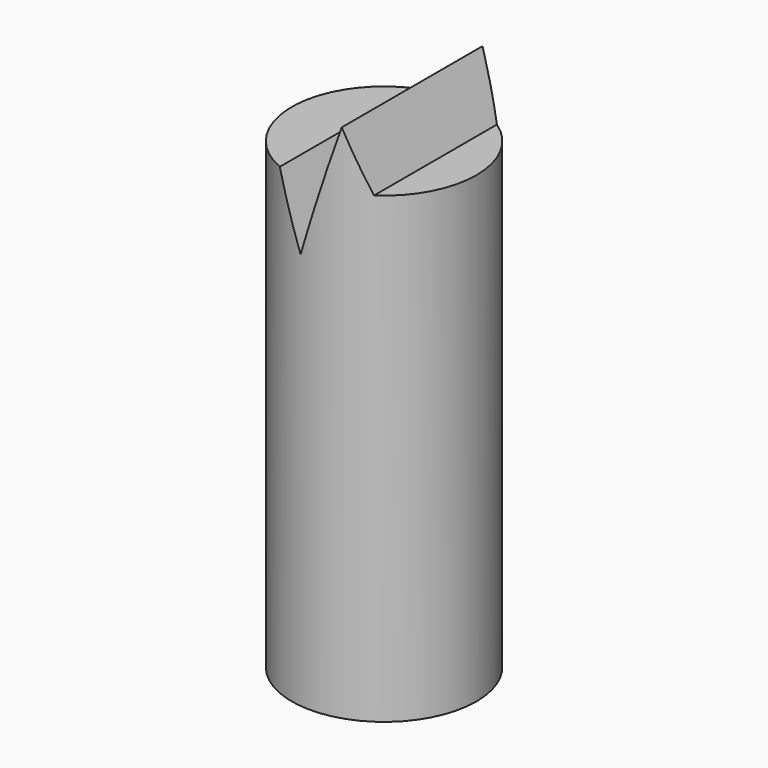
from build123d import *

# Parameters (mm, degrees)
F0_R     = 3.175
F1_DEPTH = 19.05
F3_DEPTH = 12.7


with BuildPart() as f1:
    # F0 (on Top) → F1 (new body)
    with BuildSketch(Plane.XY):
        Circle(F0_R)
    extrude(amount=-F1_DEPTH)

    # F2 (on Front) → F3 (cut, symmetric)
    with BuildSketch(Plane.XZ):
        Polygon((3.41024, 0.097258), (-3.577343, 0.097258), (-3.577343, -3.126712), (-1.249831, -3.126712), (-0.344881, -5.392152), (0.963141, -1.171422), (1.7667, -3.126712), (3.502352, -3.126712), align=None)
    extrude(amount=F3_DEPTH, both=True, mode=Mode.SUBTRACT)


solid = f1.part
